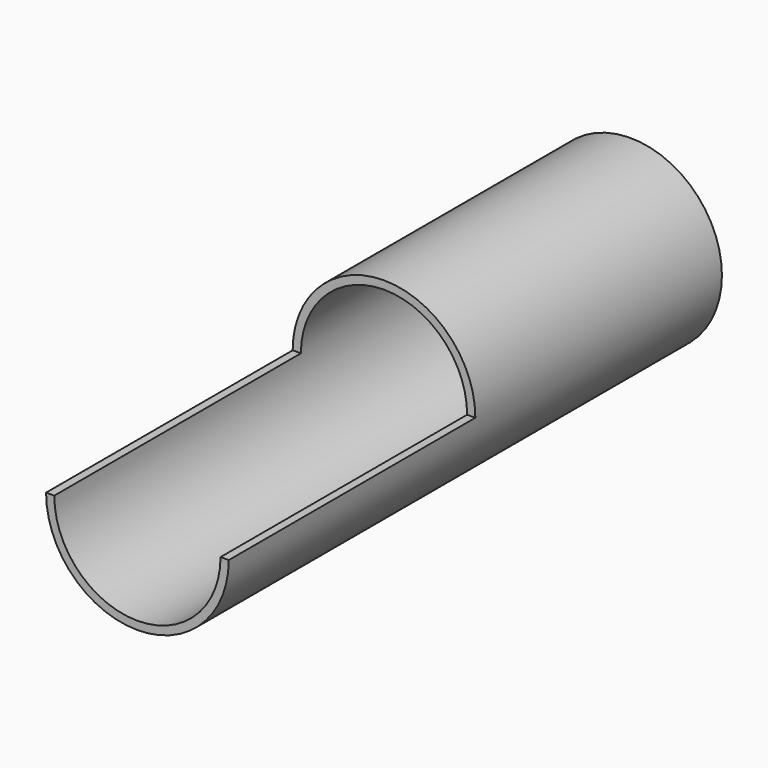
from build123d import *

# Parameters (mm, degrees)
F0_R     = 44.45
F1_DEPTH = 300
F3_DEPTH = 150
F5_D     = 80.9
F5_DEPTH = 300


with BuildPart() as f1:
    # F0 (on Front) → F1 (new body)
    with BuildSketch(Plane.XZ):
        Circle(F0_R)
    extrude(amount=F1_DEPTH)

    # F2 (on face) → F3 (cut)
    with BuildSketch(Plane.XZ.offset(300)):
        with BuildLine():
            ThreePointArc((44.45, 0), (0, 44.45), (-44.45, 0))
            Line((-44.45, 0), (44.45, 0))
        make_face()
    extrude(amount=-F3_DEPTH, mode=Mode.SUBTRACT)

    # F5
    with Locations(Plane(origin=(0, 0, 0), x_dir=(-1, 0, 0), z_dir=(0, 1, 0))):
        with Locations((0, 0)):
            Hole(F5_D / 2, depth=F5_DEPTH)


solid = f1.part
